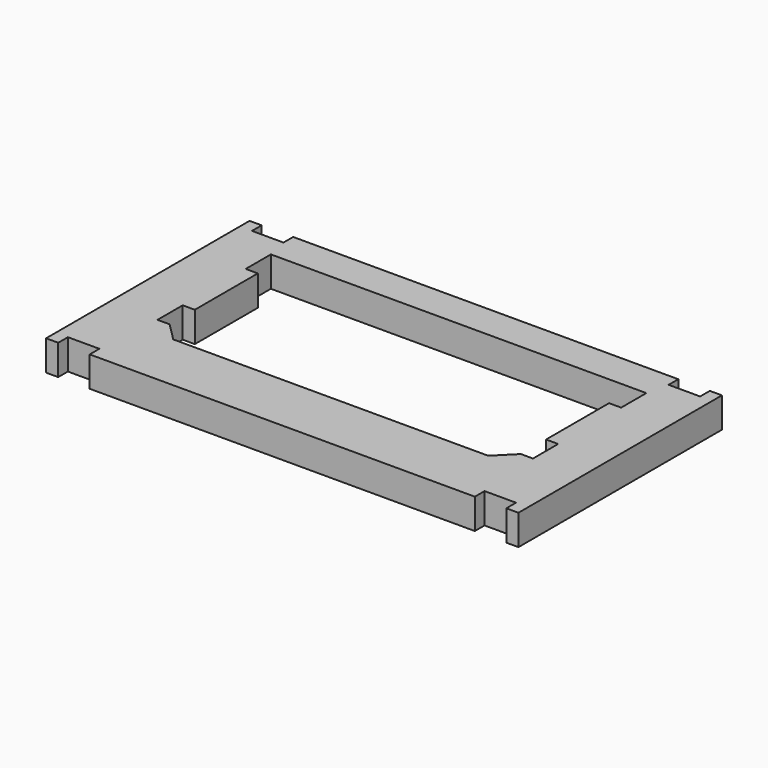
from build123d import *

# Parameters (mm, degrees)
F1_DEPTH = 2.5


with BuildPart() as f1:
    # F0 (on Top) → F1 (new body)
    with BuildSketch(Plane.XY):
        Polygon((18.5, -10.5), (19.5, -10.5), (19.5, 10.5), (18.5, 10.5), (18.5, 9.5), (15.9, 9.5), (15.9, 10.5), (-15.9, 10.5), (-15.9, 9.5), (-18.5, 9.5), (-18.5, 10.5), (-19.5, 10.5), (-19.5, -10.5), (-18.5, -10.5), (-18.5, -9.5), (-15.9, -9.5), (-15.9, -10.5), (15.9, -10.5), (15.9, -9.5), (18.5, -9.5), align=None)
        Polygon((-14.5, -1.4), (-14.5, 5.1), (-15.5, 5.1), (-15.5, 7.7), (15.5, 7.7), (15.5, 5.1), (14.5, 5.1), (14.5, -1.4), (15.5, -1.4), (15.5, -4), (14.5, -4), (13, -5.5), (-13, -5.5), (-14.5, -4), (-15.5, -4), (-15.5, -1.4), align=None, mode=Mode.SUBTRACT)
    extrude(amount=F1_DEPTH)


solid = f1.part
